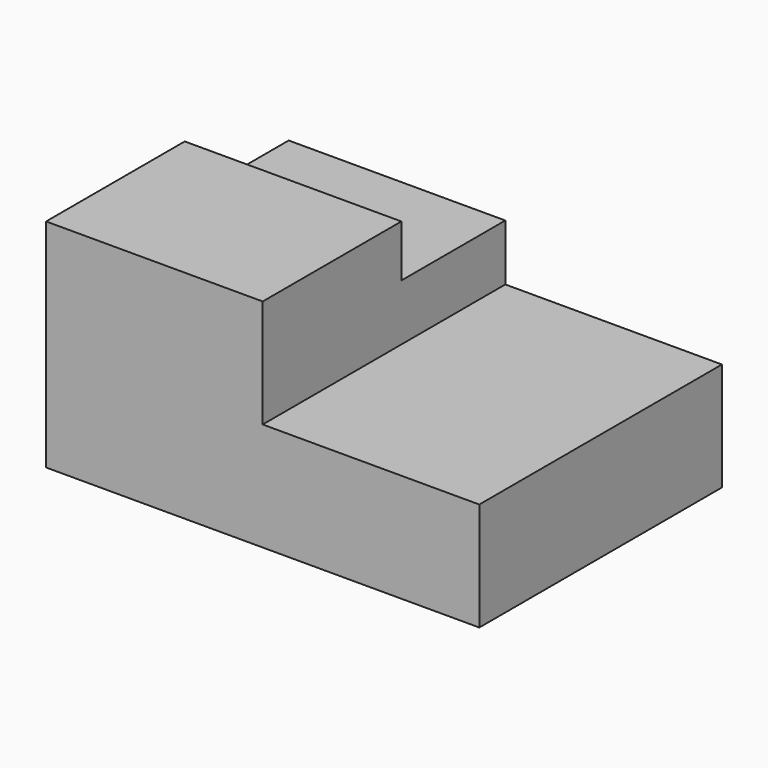
from build123d import *

# Parameters (mm, degrees)
F1_DEPTH = 177.8
F2_W     = 127
F2_H     = 101.6
F3_DEPTH = 30.48


with BuildPart() as f1:
    # F0 (on Front) → F1 (new body)
    with BuildSketch(Plane.XZ):
        Polygon((-254, 0), (0, 0), (0, 63.5), (-127, 63.5), (-127, 96.52), (-254, 96.52), align=None)
    extrude(amount=F1_DEPTH)

    # F2 (on face) → F3 (join)
    with BuildSketch(Plane.XY.offset(96.52)):
        with Locations((-190.5, -127)):
            Rectangle(F2_W, F2_H)
    extrude(amount=F3_DEPTH)


solid = f1.part
